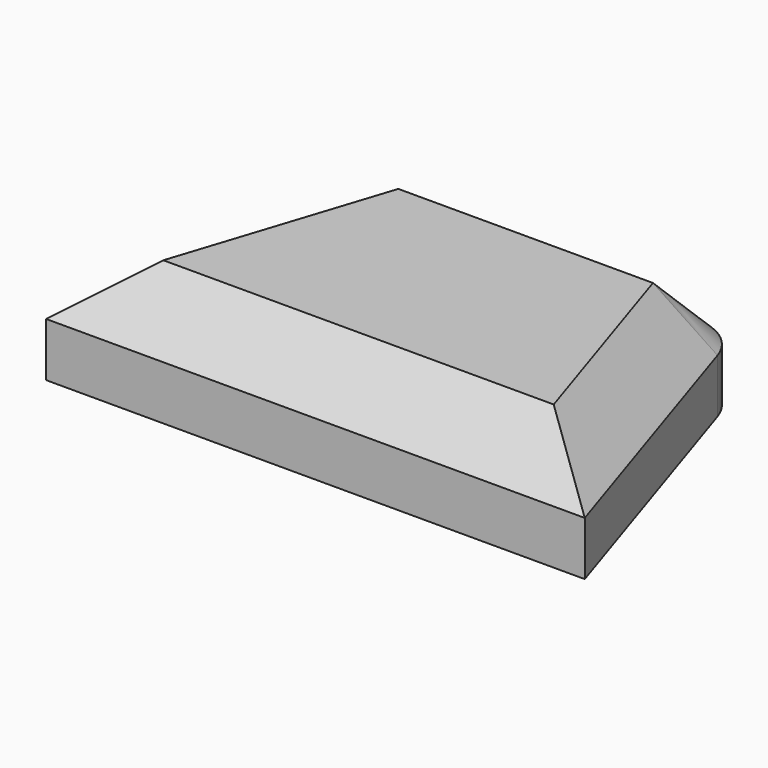
from build123d import *

# Parameters (mm, degrees)
F1_DEPTH = 10
F2_R     = 5
F3_R     = 5
F4_SIZE  = 5


with BuildPart() as f1:
    # F0 (on Top) → F1 (new body)
    with BuildSketch(Plane.XY):
        Polygon((-15.45085, 21.26627), (-25, -8.122992), (25, -8.122992), (15.45085, 21.26627), align=None)
    extrude(amount=F1_DEPTH)

    # F2
    f2_edges = [f1.edges().sort_by_distance(p)[0] for p in [
        (15.45085, 21.26627, 5),
    ]]
    fillet(f2_edges, radius=F2_R)

    # F3
    f3_edges = [f1.edges().sort_by_distance(p)[0] for p in [
        (-15.45085, 21.26627, 5),
    ]]
    fillet(f3_edges, radius=F3_R)

    # F4
    f4_edges = [f1.edges().sort_by_distance(p)[0] for p in [
        (0, 21.26627, 10),
        (-14.757063, 20.311355, 10),
        (14.757063, 20.311355, 10),
        (-20.78671, 4.844181, 10),
        (20.78671, 4.844181, 10),
        (0, -8.122992, 10),
    ]]
    chamfer(f4_edges, length=F4_SIZE)


solid = f1.part
